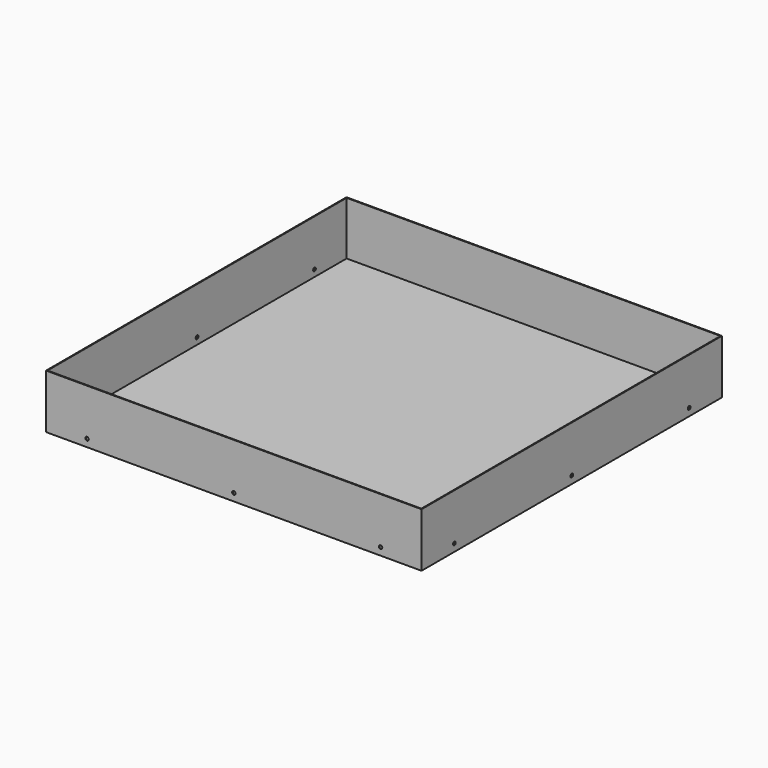
from build123d import *

# Parameters (mm, degrees)
F0_W     = 357.378
F0_H     = 357.378
F1_DEPTH = 51.562
F2_T     = -0.762
F4_D     = 3.2639
F4_DEPTH = 0.762
F4_TIP   = 0.9805744872
F6_D     = 3.2639


with BuildPart() as f1:
    # F0 (on Top) → F1 (new body)
    with BuildSketch(Plane.XY):
        Rectangle(F0_W, F0_H)
    extrude(amount=F1_DEPTH)

    # F2
    f2_openings = [f1.faces().sort_by_distance(p)[0] for p in [
        (0, 0, 51.562),
    ]]
    offset(amount=F2_T, openings=f2_openings)

    # F4
    with Locations(Plane.XZ.offset(178.689)):
        with Locations((139.7, 7.112), (0, 7.112), (-139.7, 7.112)):
            Hole(F4_D / 2, depth=F4_DEPTH)
            with Locations((0, 0, -(F4_DEPTH + F4_TIP / 2))):  # 118° drill point
                Cone(0, F4_D / 2, F4_TIP, mode=Mode.SUBTRACT)

    # F6 (through all)
    with Locations(Plane(origin=(-178.689, 0, 0), x_dir=(0, -1, 0), z_dir=(-1, 0, 0))):
        with Locations((-139.7, 7.112), (0, 7.112), (139.7, 7.112)):
            Hole(F6_D / 2)


solid = f1.part
